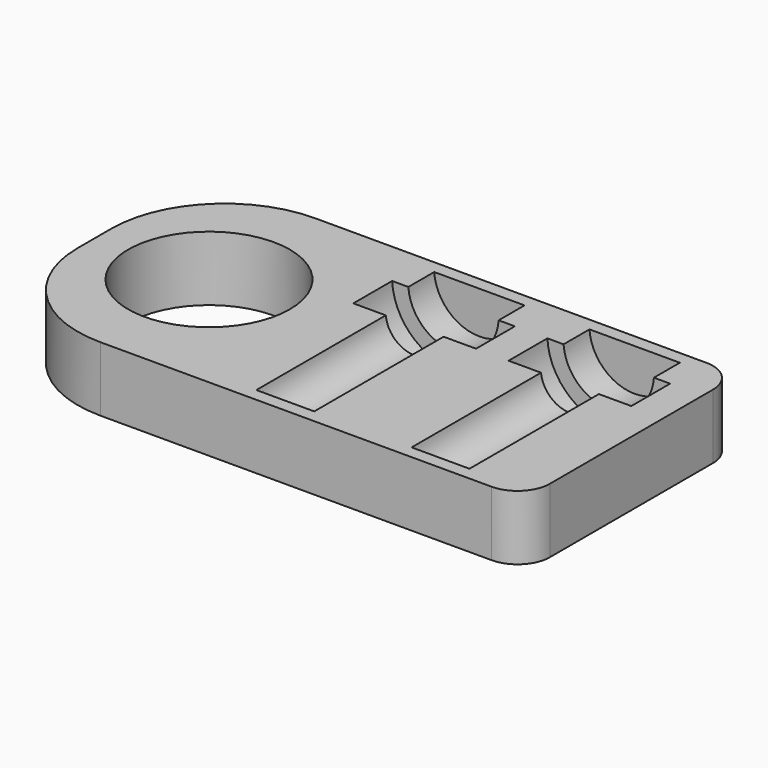
from build123d import *

# Parameters (mm, degrees)
F0_R     = 12.5
F1_DEPTH = 10


with BuildPart() as f1:
    # F0 (on Top) → F1 (new body)
    with BuildSketch(Plane.XY):
        with BuildLine():
            ThreePointArc((0, 17.5), (5.1256313292, 5.1256313292), (17.5, 0))
            Line((17.5, 0), (78, 0))
            ThreePointArc((78, 0), (81.5355339059, 1.4644660941), (83, 5))
            Line((83, 5), (83, 36.5))
            ThreePointArc((83, 36.5), (81.5355339059, 40.0355339059), (78, 41.5))
            Line((78, 41.5), (17.5, 41.5))
            ThreePointArc((17.5, 41.5), (5.1256313292, 36.3743686708), (0, 24))
            Line((0, 24), (0, 17.5))
        make_face()
        with Locations((17.5, 21)):
            Circle(F0_R, mode=Mode.SUBTRACT)
    extrude(amount=F1_DEPTH)

    # F3 (on offset) → F4 (revolve, cut)
    with BuildSketch(Plane.XY.offset(10.5)):
        Polygon((44.5, 27), (44.5, 2), (49, 2), (49, 27), (54, 27), (54, 34.5), (51.5, 34.5), (51.5, 39.5), (44.5, 39.5), (44.5, 34.5), align=None)
    revolve(axis=Axis((44.5, 14.5, 10.5), (0, 1, 0)), mode=Mode.SUBTRACT)

    # F3 (on offset) → F5 (revolve, cut)
    with BuildSketch(Plane.XY.offset(10.5)):
        Polygon((68.5, 27), (68.5, 2), (73, 2), (73, 27), (78, 27), (78, 34.5), (75.5, 34.5), (75.5, 39.5), (68.5, 39.5), (68.5, 34.5), align=None)
    revolve(axis=Axis((68.5, 14.5, 10.5), (0, 1, 0)), mode=Mode.SUBTRACT)


solid = f1.part
